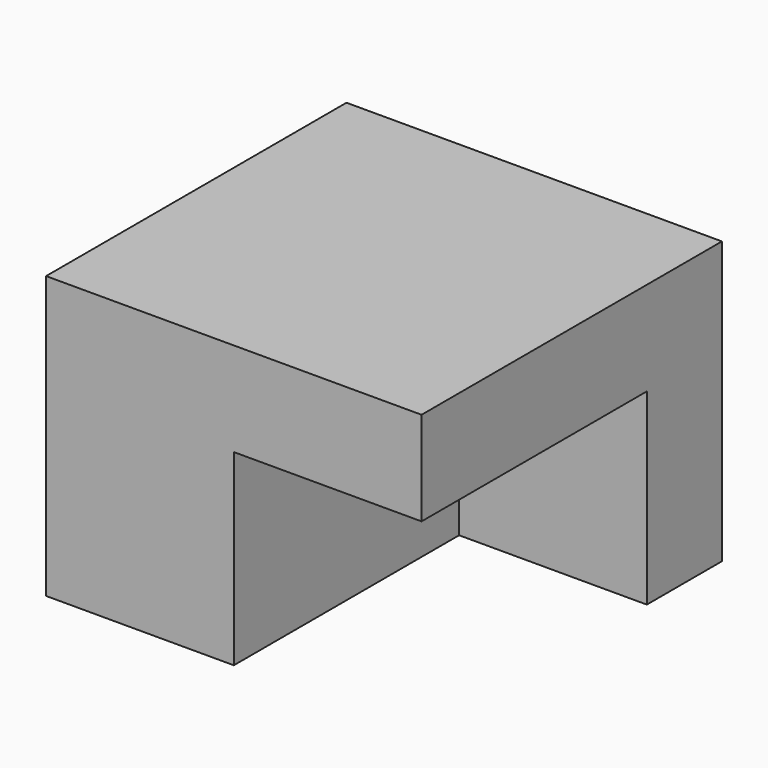
from build123d import *

# Parameters (mm, degrees)
F0_W     = 50.8
F0_H     = 50.8
F1_DEPTH = 38.1
F2_W     = 25.4
F2_H     = 38.1
F3_DEPTH = 25.4


with BuildPart() as f1:
    # F0 (on Top) → F1 (new body)
    with BuildSketch(Plane.XY):
        with Locations((-3.418149, 1.304357)):
            Rectangle(F0_W, F0_H)
    extrude(amount=F1_DEPTH)

    # F2 (on Top) → F3 (cut)
    with BuildSketch(Plane.XY):
        with Locations((9.281851, -5.045643)):
            Rectangle(F2_W, F2_H)
    extrude(amount=F3_DEPTH, mode=Mode.SUBTRACT)


solid = f1.part
